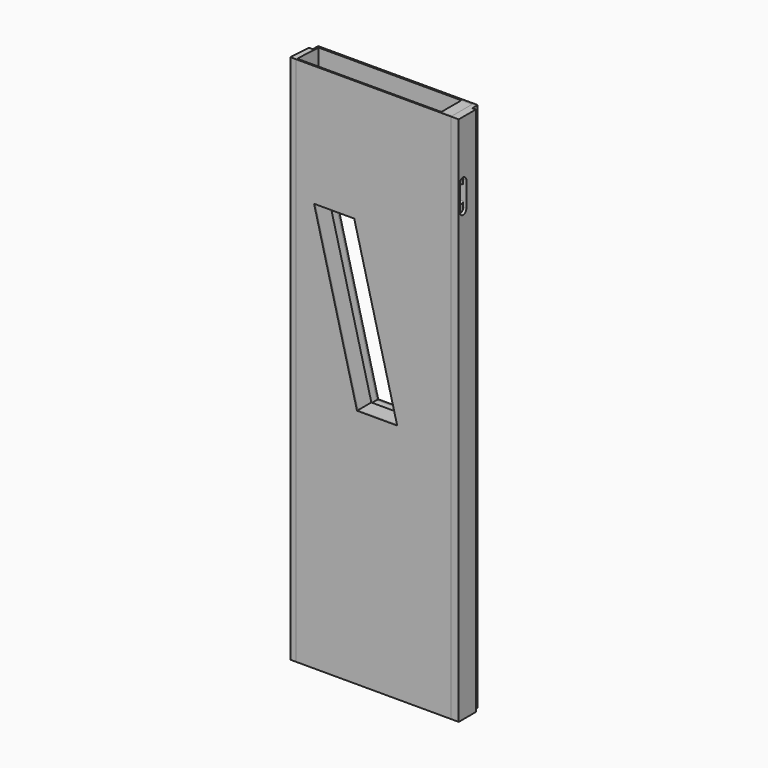
from build123d import *

# Parameters (mm, degrees)
F0_W      = 27.305
F0_H      = 1881.9622
F1_DEPTH  = 100.0125
F2_W      = 38.1
F2_H      = 88.9
F3_DEPTH  = 1881.9622
F6_DEPTH  = 1881.9622
F8_DEPTH  = 1881.9622
F10_DEPTH = 38.1
F12_DEPTH = 11.1125
F14_DEPTH = 30.95625
F16_DEPTH = 596.43992
F17_W     = 12.7
F17_H     = 23.8125
F18_DEPTH = 1881.9632
F19_W     = 551.4731178237
F19_H     = 6.35
F20_DEPTH = 1881.9622
F23_DEPTH = 6.351
F26_DEPTH = 58.7375
F27_DEPTH = 30.1625
F28_DEPTH = 63.501


with BuildPart() as f1:
    # F0 (on Front) → F1 (new body)
    with BuildSketch(Plane.XZ):
        with Locations((-13.6525, 940.9811)):
            Rectangle(F0_W, F0_H)
    extrude(amount=-F1_DEPTH)

    # F11 (on face) → F12 (cut)
    with BuildSketch(Plane.YZ):
        with BuildLine():
            Line((5.08, 1678.7622), (5.08, 1589.8622))
            ThreePointArc((5.08, 1589.8622), (19.3675, 1575.5747), (33.655, 1589.8622))
            Line((33.655, 1589.8622), (33.655, 1678.7622))
            ThreePointArc((33.655, 1678.7622), (19.3675, 1693.0497), (5.08, 1678.7622))
        make_face()
    extrude(amount=-F12_DEPTH, mode=Mode.SUBTRACT)


with BuildPart() as f3:
    # F2 (on face) → F3 (new body, through all)
    with BuildSketch(Plane(origin=(0, 0, 0), x_dir=(1, 0, 0), z_dir=(0, 0, -1))):
        with Locations((-46.355, -49.2125)):
            Rectangle(F2_W, F2_H)
    extrude(amount=-F3_DEPTH)


with BuildPart() as f6:
    # F5 (on Top) → F6 (new body, through all)
    with BuildSketch(Plane.XY):
        Polygon((-571.5738296892, 93.6625), (-591.4781178237, 93.6625), (-597.535, 0), (-577.6307118655, 0), align=None)
    extrude(amount=F6_DEPTH)


with BuildPart() as f8:
    # F7 (on face) → F8 (new body, through all)
    with BuildSketch(Plane(origin=(0, 0, 0), x_dir=(1, 0, 0), z_dir=(0, 0, -1))):
        Polygon((-577.3227348057, -4.7625), (-27.305, -4.7625), (-27.305, 0), (-577.6307118655, 0), align=None)
    extrude(amount=-F8_DEPTH)

    # F25 (on offset) → F28 (cut, through all)
    with BuildSketch(Plane.XZ.offset(-63.5)):
        Polygon((-370.6929571686, 1451.4914666667), (-513.160896998, 1451.4914666667), (-360.8270428314, 854.5914666668), (-218.3591030019, 854.5914666667), align=None)
    extrude(amount=F28_DEPTH, mode=Mode.SUBTRACT)


with BuildPart() as f10:
    # F9 (on face) → F10 (new body)
    with BuildSketch(Plane(origin=(0, 0, 0), x_dir=(1, 0, 0), z_dir=(0, 0, -1))):
        Polygon((-571.5738296892, -93.6625), (-65.405, -93.6625), (-65.405, -4.7625), (-577.3227348057, -4.7625), align=None)
    extrude(amount=-F10_DEPTH)


with BuildPart() as f14_tool:
    # F13 (on face) → F14 (new body)
    with BuildSketch(Plane.YZ.offset(-11.1125)):
        with BuildLine():
            Line((27.305, 1665.26845), (11.43, 1665.26845))
            ThreePointArc((11.43, 1665.26845), (6.9398719395, 1663.4085780605), (5.08, 1658.91845))
            Line((5.08, 1658.91845), (5.08, 1609.70595))
            ThreePointArc((5.08, 1609.70595), (6.9398719395, 1605.2158219395), (11.43, 1603.35595))
            Line((11.43, 1603.35595), (27.305, 1603.35595))
            ThreePointArc((27.305, 1603.35595), (31.7951280605, 1605.2158219395), (33.655, 1609.70595))
            Line((33.655, 1609.70595), (33.655, 1658.91845))
            ThreePointArc((33.655, 1658.91845), (31.7951280605, 1663.4085780605), (27.305, 1665.26845))
        make_face()
    extrude(amount=-F14_DEPTH)


with BuildPart() as f1_1:
    add(f1.part)

    # F14: cut by f14_tool
    add(f14_tool.part, mode=Mode.SUBTRACT)


with BuildPart() as f3_1:
    add(f3.part)

    # F14: cut by f14_tool
    add(f14_tool.part, mode=Mode.SUBTRACT)


with BuildPart() as f16:
    # F15 (on offset) → F16 (new body)
    with BuildSketch(Plane.YZ.offset(-600.71)):
        Polygon((-20.0647553623, 1526.7833842013), (-9.9087004615, 1526.5002784738), (0, 1881.9622), align=None)
    extrude(amount=F16_DEPTH)


with BuildPart() as f16b:
    # F15 (on offset) → F16, piece 2 (new body)
    with BuildSketch(Plane.YZ.offset(-600.71)):
        Polygon((-16.3270426588, 1386.8002784738), (-6.1685714286, 1386.6240335758), (0, 1742.1705266348), (-9.9087004615, 1526.5002784738), align=None)
    extrude(amount=F16_DEPTH)


with BuildPart() as f16c:
    # F15 (on offset) → F16, piece 3 (new body)
    with BuildSketch(Plane.YZ.offset(-600.71)):
        Polygon((0, 1246.9240335758), (0, 1602.5240335758), (-6.1685714286, 1386.6240335758), (-10.16, 1246.9240335758), align=None)
    extrude(amount=F16_DEPTH)


with BuildPart() as f18_tool:
    # F17 (on face) → F18 (new body, through all)
    with BuildSketch(Plane.XY.offset(1881.9622)):
        with Locations((-6.35, 88.10625)):
            Rectangle(F17_W, F17_H)
        Polygon((-592.607367043, 76.2), (-591.4781178237, 76.2), (-578.7781178237, 76.2), (-578.7781178237, 93.6625), (-591.4781178237, 93.6625), align=None)
    extrude(amount=-F18_DEPTH)


with BuildPart() as f1_2:
    add(f1_1.part)

    # F18: cut by f18_tool
    add(f18_tool.part, mode=Mode.SUBTRACT)


with BuildPart() as f6_1:
    add(f6.part)

    # F18: cut by f18_tool
    add(f18_tool.part, mode=Mode.SUBTRACT)


with BuildPart() as f20:
    # F19 (on face) → F20 (new body, through all)
    with BuildSketch(Plane.XY.offset(1881.9622)):
        with Locations((-303.0415589119, 96.8375)):
            Rectangle(F19_W, F19_H)
    extrude(amount=-F20_DEPTH)

    # F22 (on face) → F23 (cut, through all)
    with BuildSketch(Plane.XZ.offset(-93.6625)):
        Polygon((-365.76, 1457.8414666667), (-521.335, 1457.8414666667), (-365.76, 848.2414666666), (-210.185, 848.2414666667), align=None)
    extrude(amount=-F23_DEPTH, mode=Mode.SUBTRACT)


with BuildPart() as f26:
    # F25 (on offset) → F26 (new body, through all)
    with BuildSketch(Plane.XZ.offset(-63.5)):
        Polygon((-355.8940856629, 1470.5414666667), (-537.6832060038, 1470.5414666667), (-375.6259143372, 835.5414666669), (-193.8367939962, 835.5414666667), align=None)
        Polygon((-365.76, 848.241466667), (-521.3350000002, 1457.8414666674), (-365.76, 1457.8414666667), (-210.1850000001, 848.2414666671), align=None, mode=Mode.SUBTRACT)
        Polygon((-365.76, 1457.8414666667), (-521.335, 1457.8414666667), (-365.76, 848.241466667), (-210.185, 848.2414666667), align=None)
        Polygon((-360.8270428314, 854.5914666668), (-513.1608969981, 1451.4914666668), (-370.6929571686, 1451.4914666667), (-218.359103002, 854.591466667), align=None, mode=Mode.SUBTRACT)
    extrude(amount=F26_DEPTH)

    # F25 (on offset) → F27 (join, through all)
    with BuildSketch(Plane.XZ.offset(-63.5)):
        Polygon((-355.8940856629, 1470.5414666667), (-537.6832060038, 1470.5414666667), (-375.6259143372, 835.5414666669), (-193.8367939962, 835.5414666667), align=None)
        Polygon((-365.76, 848.241466667), (-521.3350000002, 1457.8414666674), (-365.76, 1457.8414666667), (-210.1850000001, 848.2414666671), align=None, mode=Mode.SUBTRACT)
    extrude(amount=-F27_DEPTH)


solid = Compound([f8.part, f10.part, f3_1.part, f1_2.part, f6_1.part, f20.part, f26.part])
